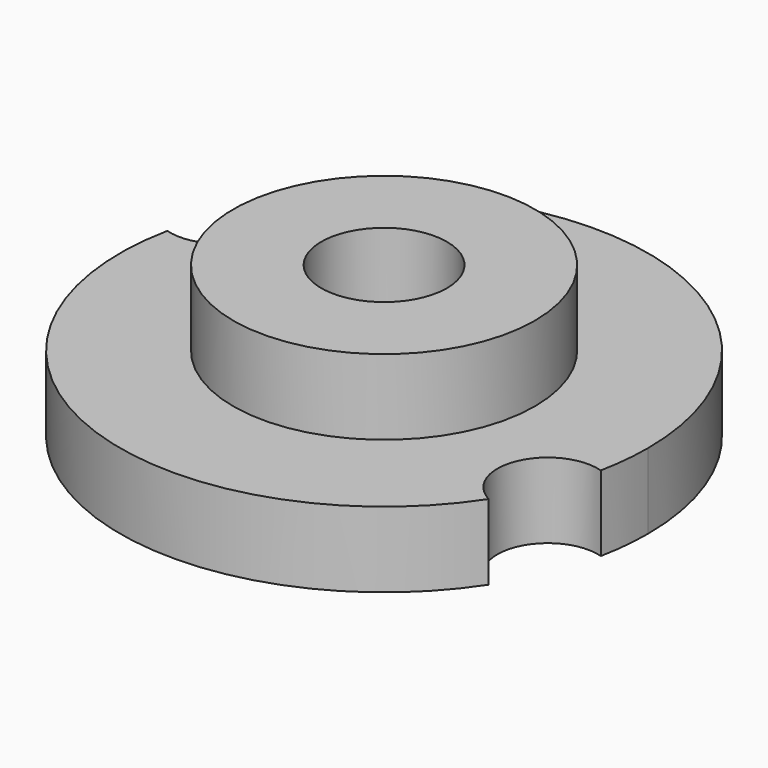
from build123d import *

# Parameters (mm, degrees)
F0_R     = 152.4
F0_R_2   = 63.5
F1_DEPTH = 152.4
F2_R     = 102.235
F3_DEPTH = 76.2


with BuildPart() as f1:
    # F0 (on Top) → F1 (new body)
    with BuildSketch(Plane.XY):
        Circle(F0_R)
        Circle(F0_R_2, mode=Mode.SUBTRACT)
    extrude(amount=F1_DEPTH)


with BuildPart() as f3:
    # F2 (on Top) → F3 (new body)
    with BuildSketch(Plane.XY):
        with BuildLine():
            ThreePointArc((261.3855837432, -52.9760947147), (265.3680700313, -26.6209956208), (266.7, 0))
            ThreePointArc((266.7, 0), (76.4546170247, 255.506519556), (-222.8656658089, 146.4915868013))
            ThreePointArc((-222.8656658089, 146.4915868013), (-203.0887492847, 127.7965544811), (-195.7990774278, 101.576498324))
            ThreePointArc((-195.7990774278, 101.576498324), (-216.3543631856, 60.7610936291), (-261.3855837432, 52.9760947147))
            ThreePointArc((-261.3855837432, 52.9760947147), (-101.576498324, -246.5990774278), (222.8656658089, -146.4915868013))
            ThreePointArc((222.8656658089, -146.4915868013), (199.6278245844, -82.2285938813), (261.3855837432, -52.9760947147))
        make_face()
        Circle(F2_R, mode=Mode.SUBTRACT)
    extrude(amount=F3_DEPTH)


with BuildPart() as f3b:
    # F0 (on Top) → F3, piece 2 (new body)
    with BuildSketch(Plane.XY):
        Circle(F0_R)
        Circle(F0_R_2, mode=Mode.SUBTRACT)
    extrude(amount=F3_DEPTH)


solid = Compound([f1.part, f3.part, f3b.part])
